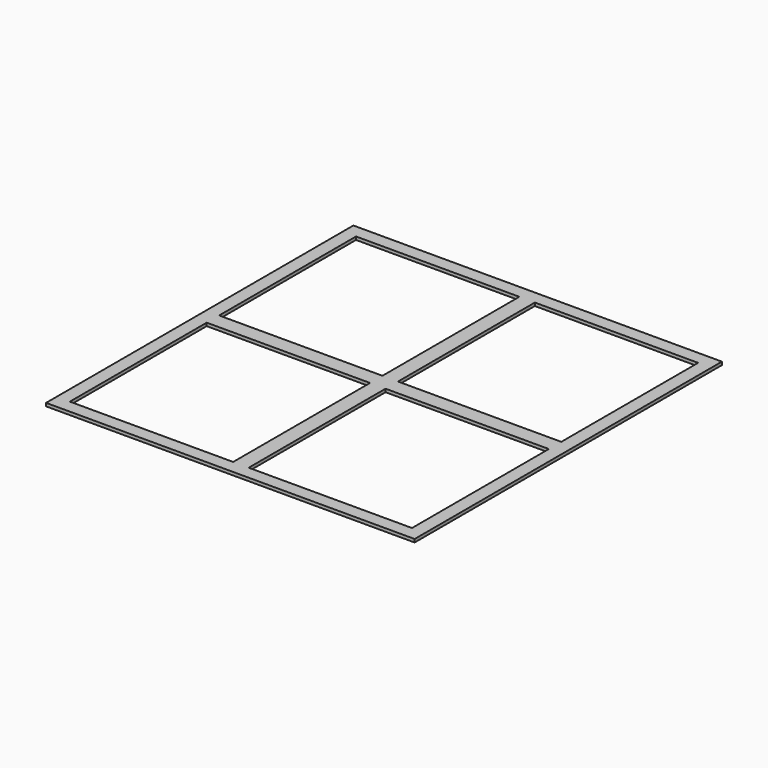
from build123d import *

# Parameters (mm, degrees)
F0_W     = 118.5
F0_H     = 123.5
F1_DEPTH = 1
F2_W     = 110
F2_H     = 115
F3_DEPTH = 25
F5_DEPTH = 1


with BuildPart() as f1:
    # F0 (on Top) → F1 (new body)
    with BuildSketch(Plane.XY):
        Rectangle(F0_W, F0_H)
    extrude(amount=F1_DEPTH)

    # F2 (on face) → F3 (cut)
    with BuildSketch(Plane.XY.offset(1)):
        Rectangle(F2_W, F2_H)
    extrude(amount=-F3_DEPTH, mode=Mode.SUBTRACT)

    # F4 (on Top) → F5 (join)
    with BuildSketch(Plane.XY):
        Polygon((2.5, 2.5), (2.5, 57.5), (-2.5, 57.5), (-2.5, 2.5), (-55, 2.5), (-55, -2.5), (-2.5, -2.5), (-2.5, -57.5), (2.5, -57.5), (2.5, -2.5), (55, -2.5), (55, 2.5), align=None)
    extrude(amount=F5_DEPTH)


solid = f1.part
